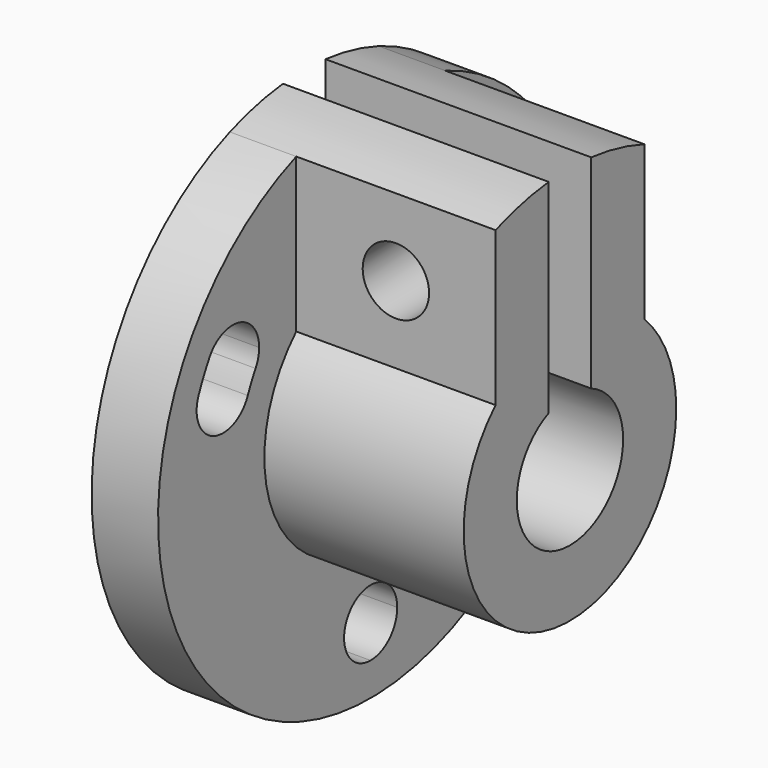
from build123d import *

# Parameters (mm, degrees)
F1_DEPTH = 6.35
F2_DEPTH = 25.4
F3_R     = 3.175
F4_DEPTH = 17.78


with BuildPart() as f1:
    # F0 (on Right) → F1 (new body)
    with BuildSketch(Plane.YZ):
        with BuildLine():
            ThreePointArc((1.85e-08, -15.875), (-13.1884011008, -8.836385087), (-14.6819263939, 6.0379352732))
            ThreePointArc((-14.6819263939, 6.0379352732), (-18.8258986856, 4.3091372138), (-20.5546969332, 8.4531094269))
            ThreePointArc((-20.5546969332, 8.4531094269), (-18.4637615858, -12.370939055), (-8.66e-08, -22.225))
            ThreePointArc((-8.66e-08, -22.225), (-3.175, -19.0499999474), (1.85e-08, -15.875))
        make_face()
        with BuildLine():
            ThreePointArc((20.7933116087, 7.2455224835), (18.2337795642, 4.1307473398), (14.6819262886, 6.0379355294))
            ThreePointArc((14.6819262886, 6.0379355294), (15.5738756389, 3.0773401802), (15.875, 0))
            ThreePointArc((15.875, 0), (11.2253201579, -11.2253201448), (1.85e-08, -15.875))
            ThreePointArc((1.85e-08, -15.875), (2.2450640368, -16.8049359763), (3.175, -19.05))
            ThreePointArc((3.175, -19.05), (2.2450639997, -21.2950640609), (-8.66e-08, -22.225))
            ThreePointArc((-8.66e-08, -22.225), (15.7154481813, -15.7154482425), (22.225, 0))
            ThreePointArc((22.225, 0), (21.803425923, 4.3082761076), (20.5546969161, 8.4531094685))
            ThreePointArc((20.5546969161, 8.4531094685), (20.7330867492, 7.8609904554), (20.7933116087, 7.2455224835))
        make_face()
        with BuildLine():
            Line((2.54, 15.6704826027), (2.54, 12.4434078933))
            ThreePointArc((2.54, 12.4434078933), (5.9587621309, 11.2153089065), (8.89, 9.0696141042))
            Line((8.89, 9.0696141042), (8.89, 13.1523201375))
            ThreePointArc((8.89, 13.1523201375), (5.8520518239, 14.7570022176), (2.54, 15.6704826027))
        make_face()
        with BuildLine():
            Line((2.54, 25.2726809025), (2.54, 23.7934423739))
            Line((2.54, 23.7934423739), (8.89, 23.7934423739))
            ThreePointArc((8.89, 23.7934423739), (5.7626609874, 24.7376583036), (2.54, 25.2726809025))
        make_face()
        with BuildLine():
            Line((-8.89, 23.7934423739), (-2.54, 23.7934423739))
            Line((-2.54, 23.7934423739), (-2.54, 25.2726809025))
            ThreePointArc((-2.54, 25.2726809025), (-5.7626609874, 24.7376583036), (-8.89, 23.7934423739))
        make_face()
        with BuildLine():
            ThreePointArc((-8.89, 9.0696141042), (-5.9587621309, 11.2153089065), (-2.54, 12.4434078933))
            Line((-2.54, 12.4434078933), (-2.54, 15.6704826027))
            ThreePointArc((-2.54, 15.6704826027), (-5.8520518239, 14.7570022176), (-8.89, 13.1523201375))
            Line((-8.89, 13.1523201375), (-8.89, 9.0696141042))
        make_face()
        with BuildLine():
            Line((-8.89, 0), (-6.35, 0))
            ThreePointArc((-6.35, 0), (-5.3127911685, 3.4780382402), (-2.54, 5.8198711326))
            Line((-2.54, 5.8198711326), (-2.54, 12.4434078933))
            ThreePointArc((-2.54, 12.4434078933), (-5.9587621309, 11.2153089065), (-8.89, 9.0696141042))
            Line((-8.89, 9.0696141042), (-8.89, 0))
        make_face()
        with BuildLine():
            Line((8.89, 0), (6.35, 0))
            ThreePointArc((6.35, 0), (0, -6.35), (-6.35, 0))
            Line((-6.35, 0), (-8.89, 0))
            Line((-8.89, 0), (-8.89, 9.0696141042))
            ThreePointArc((-8.89, 9.0696141042), (-4.9186888497, -11.7088214608), (12.7, 0))
            ThreePointArc((12.7, 0), (11.7088214608, 4.9186888497), (8.89, 9.0696141042))
            Line((8.89, 9.0696141042), (8.89, 0))
        make_face()
        with BuildLine():
            ThreePointArc((2.54, 5.8198711326), (5.3127911685, 3.4780382402), (6.35, 0))
            Line((6.35, 0), (8.89, 0))
            Line((8.89, 0), (8.89, 9.0696141042))
            ThreePointArc((8.89, 9.0696141042), (5.9587621309, 11.2153089065), (2.54, 12.4434078933))
            Line((2.54, 12.4434078933), (2.54, 5.8198711326))
        make_face()
        with BuildLine():
            ThreePointArc((-13.7481533134, 7.937499951), (-11.6155104819, 10.8210693208), (-8.89, 13.1523201375))
            Line((-8.89, 13.1523201375), (-8.89, 20.3695489641))
            ThreePointArc((-8.89, 20.3695489641), (-14.8105289031, 16.5710246699), (-19.247414709, 11.1124998097))
            ThreePointArc((-19.247414709, 11.1124998097), (-15.67603358, 12.5918145269), (-13.3227839421, 9.525))
            ThreePointArc((-13.3227839421, 9.525), (-13.4309694509, 8.7032495045), (-13.7481533134, 7.937499951))
        make_face()
        with BuildLine():
            Line((8.89, 13.1523201375), (8.89, 9.0696141042))
            ThreePointArc((8.89, 9.0696141042), (11.7088214608, 4.9186888497), (12.7, 0))
            ThreePointArc((12.7, 0), (-4.9186888497, -11.7088214608), (-8.89, 9.0696141042))
            Line((-8.89, 9.0696141042), (-8.89, 13.1523201375))
            ThreePointArc((-8.89, 13.1523201375), (-11.6155104819, 10.8210693208), (-13.7481533134, 7.937499951))
            ThreePointArc((-13.7481533134, 7.937499951), (-14.2467345217, 7.003297828), (-14.6819263939, 6.0379352732))
            ThreePointArc((-14.6819263939, 6.0379352732), (-13.1884011008, -8.836385087), (1.85e-08, -15.875))
            ThreePointArc((1.85e-08, -15.875), (11.2253201579, -11.2253201448), (15.875, 0))
            ThreePointArc((15.875, 0), (15.5738756389, 3.0773401802), (14.6819262886, 6.0379355294))
            ThreePointArc((14.6819262886, 6.0379355294), (14.2467344349, 7.0032980045), (13.7481532552, 7.9375000518))
            ThreePointArc((13.7481532552, 7.9375000518), (11.6155104422, 10.8210693634), (8.89, 13.1523201375))
        make_face()
        with BuildLine():
            Line((8.89, 23.7934423739), (8.89, 20.3695489641))
            ThreePointArc((8.89, 20.3695489641), (14.8105289204, 16.5710246545), (19.2474147322, 11.1124997695))
            ThreePointArc((19.2474147322, 11.1124997695), (19.9454283511, 9.804616917), (20.5546969161, 8.4531094685))
            ThreePointArc((20.5546969161, 8.4531094685), (21.803425923, 4.3082761076), (22.225, 0))
            ThreePointArc((22.225, 0), (15.7154481813, -15.7154482425), (-8.66e-08, -22.225))
            ThreePointArc((-8.66e-08, -22.225), (-18.4637615858, -12.370939055), (-20.5546969332, 8.4531094269))
            ThreePointArc((-20.5546969332, 8.4531094269), (-19.9454283508, 9.8046169177), (-19.247414709, 11.1124998097))
            ThreePointArc((-19.247414709, 11.1124998097), (-14.8105289031, 16.5710246699), (-8.89, 20.3695489641))
            Line((-8.89, 20.3695489641), (-8.89, 23.7934423739))
            ThreePointArc((-8.89, 23.7934423739), (-14.4802278988, -20.8682294409), (25.4, 0))
            ThreePointArc((25.4, 0), (20.8682294409, 14.4802278988), (8.89, 23.7934423739))
        make_face()
        with BuildLine():
            ThreePointArc((-8.89, 20.3695489641), (-5.7785902794, 21.4606271899), (-2.54, 22.0793800864))
            Line((-2.54, 22.0793800864), (-2.54, 23.7934423739))
            Line((-2.54, 23.7934423739), (-8.89, 23.7934423739))
            Line((-8.89, 23.7934423739), (-8.89, 20.3695489641))
        make_face()
        with BuildLine():
            ThreePointArc((-8.89, 13.1523201375), (-5.8520518239, 14.7570022176), (-2.54, 15.6704826027))
            Line((-2.54, 15.6704826027), (-2.54, 22.0793800864))
            ThreePointArc((-2.54, 22.0793800864), (-5.7785902794, 21.4606271899), (-8.89, 20.3695489641))
            Line((-8.89, 20.3695489641), (-8.89, 13.1523201375))
        make_face()
        with BuildLine():
            Line((2.54, 22.0793800864), (2.54, 15.6704826027))
            ThreePointArc((2.54, 15.6704826027), (5.8520518239, 14.7570022176), (8.89, 13.1523201375))
            Line((8.89, 13.1523201375), (8.89, 20.3695489641))
            ThreePointArc((8.89, 20.3695489641), (5.7785902794, 21.4606271899), (2.54, 22.0793800864))
        make_face()
        with BuildLine():
            Line((2.54, 23.7934423739), (2.54, 22.0793800864))
            ThreePointArc((2.54, 22.0793800864), (5.7785902794, 21.4606271899), (8.89, 20.3695489641))
            Line((8.89, 20.3695489641), (8.89, 23.7934423739))
            Line((8.89, 23.7934423739), (2.54, 23.7934423739))
        make_face()
        with BuildLine():
            Line((8.89, 20.3695489641), (8.89, 13.1523201375))
            ThreePointArc((8.89, 13.1523201375), (11.6155104422, 10.8210693634), (13.7481532552, 7.9375000518))
            ThreePointArc((13.7481532552, 7.9375000518), (14.9102840832, 12.2746307385), (19.2474147322, 11.1124997695))
            ThreePointArc((19.2474147322, 11.1124997695), (14.8105289204, 16.5710246545), (8.89, 20.3695489641))
        make_face()
    extrude(amount=F1_DEPTH)

    # F0 (on Right) → F2 (join)
    with BuildSketch(Plane.YZ):
        with BuildLine():
            ThreePointArc((2.54, 5.8198711326), (5.3127911685, 3.4780382402), (6.35, 0))
            Line((6.35, 0), (8.89, 0))
            Line((8.89, 0), (8.89, 9.0696141042))
            ThreePointArc((8.89, 9.0696141042), (5.9587621309, 11.2153089065), (2.54, 12.4434078933))
            Line((2.54, 12.4434078933), (2.54, 5.8198711326))
        make_face()
        with BuildLine():
            Line((2.54, 15.6704826027), (2.54, 12.4434078933))
            ThreePointArc((2.54, 12.4434078933), (5.9587621309, 11.2153089065), (8.89, 9.0696141042))
            Line((8.89, 9.0696141042), (8.89, 13.1523201375))
            ThreePointArc((8.89, 13.1523201375), (5.8520518239, 14.7570022176), (2.54, 15.6704826027))
        make_face()
        with BuildLine():
            ThreePointArc((-8.89, 9.0696141042), (-5.9587621309, 11.2153089065), (-2.54, 12.4434078933))
            Line((-2.54, 12.4434078933), (-2.54, 15.6704826027))
            ThreePointArc((-2.54, 15.6704826027), (-5.8520518239, 14.7570022176), (-8.89, 13.1523201375))
            Line((-8.89, 13.1523201375), (-8.89, 9.0696141042))
        make_face()
        with BuildLine():
            Line((-8.89, 0), (-6.35, 0))
            ThreePointArc((-6.35, 0), (-5.3127911685, 3.4780382402), (-2.54, 5.8198711326))
            Line((-2.54, 5.8198711326), (-2.54, 12.4434078933))
            ThreePointArc((-2.54, 12.4434078933), (-5.9587621309, 11.2153089065), (-8.89, 9.0696141042))
            Line((-8.89, 9.0696141042), (-8.89, 0))
        make_face()
        with BuildLine():
            Line((8.89, 0), (6.35, 0))
            ThreePointArc((6.35, 0), (0, -6.35), (-6.35, 0))
            Line((-6.35, 0), (-8.89, 0))
            Line((-8.89, 0), (-8.89, 9.0696141042))
            ThreePointArc((-8.89, 9.0696141042), (-4.9186888497, -11.7088214608), (12.7, 0))
            ThreePointArc((12.7, 0), (11.7088214608, 4.9186888497), (8.89, 9.0696141042))
            Line((8.89, 9.0696141042), (8.89, 0))
        make_face()
        with BuildLine():
            Line((-8.89, 23.7934423739), (-2.54, 23.7934423739))
            Line((-2.54, 23.7934423739), (-2.54, 25.2726809025))
            ThreePointArc((-2.54, 25.2726809025), (-5.7626609874, 24.7376583036), (-8.89, 23.7934423739))
        make_face()
        with BuildLine():
            Line((2.54, 25.2726809025), (2.54, 23.7934423739))
            Line((2.54, 23.7934423739), (8.89, 23.7934423739))
            ThreePointArc((8.89, 23.7934423739), (5.7626609874, 24.7376583036), (2.54, 25.2726809025))
        make_face()
        with BuildLine():
            ThreePointArc((-8.89, 13.1523201375), (-5.8520518239, 14.7570022176), (-2.54, 15.6704826027))
            Line((-2.54, 15.6704826027), (-2.54, 22.0793800864))
            ThreePointArc((-2.54, 22.0793800864), (-5.7785902794, 21.4606271899), (-8.89, 20.3695489641))
            Line((-8.89, 20.3695489641), (-8.89, 13.1523201375))
        make_face()
        with BuildLine():
            ThreePointArc((-8.89, 20.3695489641), (-5.7785902794, 21.4606271899), (-2.54, 22.0793800864))
            Line((-2.54, 22.0793800864), (-2.54, 23.7934423739))
            Line((-2.54, 23.7934423739), (-8.89, 23.7934423739))
            Line((-8.89, 23.7934423739), (-8.89, 20.3695489641))
        make_face()
        with BuildLine():
            Line((2.54, 22.0793800864), (2.54, 15.6704826027))
            ThreePointArc((2.54, 15.6704826027), (5.8520518239, 14.7570022176), (8.89, 13.1523201375))
            Line((8.89, 13.1523201375), (8.89, 20.3695489641))
            ThreePointArc((8.89, 20.3695489641), (5.7785902794, 21.4606271899), (2.54, 22.0793800864))
        make_face()
        with BuildLine():
            Line((2.54, 23.7934423739), (2.54, 22.0793800864))
            ThreePointArc((2.54, 22.0793800864), (5.7785902794, 21.4606271899), (8.89, 20.3695489641))
            Line((8.89, 20.3695489641), (8.89, 23.7934423739))
            Line((8.89, 23.7934423739), (2.54, 23.7934423739))
        make_face()
    extrude(amount=F2_DEPTH)

    # F3 (on face) → F4 (cut, through all)
    with BuildSketch(Plane(origin=(0, 8.89, 0), x_dir=(-1, 0, 0), z_dir=(0, 1, 0))):
        with Locations((-15.875, 16.4315282391)):
            Circle(F3_R)
    extrude(amount=-F4_DEPTH, mode=Mode.SUBTRACT)


solid = f1.part
